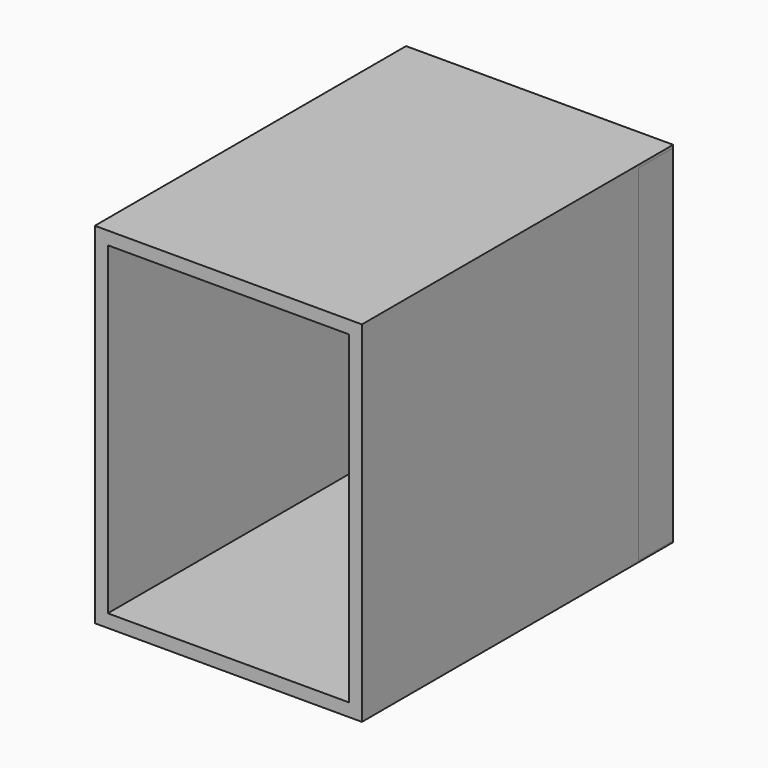
from build123d import *

# Parameters (mm, degrees)
F0_W     = 52.314232
F0_H     = 68.540037
F1_DEPTH = 76.2
F2_T     = -2.54
F3_W     = 52.314232
F3_H     = 67.700769
F4_DEPTH = 8.466667


with BuildPart() as f1:
    # F0 (on Front) → F1 (new body)
    with BuildSketch(Plane.XZ):
        with Locations((1.678531, 2.238042)):
            Rectangle(F0_W, F0_H)
    extrude(amount=F1_DEPTH)

    # F2
    f2_openings = [f1.faces().sort_by_distance(p)[0] for p in [
        (1.678531, -76.2, 2.238043),
    ]]
    offset(amount=F2_T, openings=f2_openings)


with BuildPart() as f4:
    # F3 (on Front) → F4 (new body)
    with BuildSketch(Plane.XZ):
        with Locations((1.678531, 2.098163)):
            Rectangle(F3_W, F3_H)
    extrude(amount=F4_DEPTH)


solid = Compound([f1.part, f4.part])
